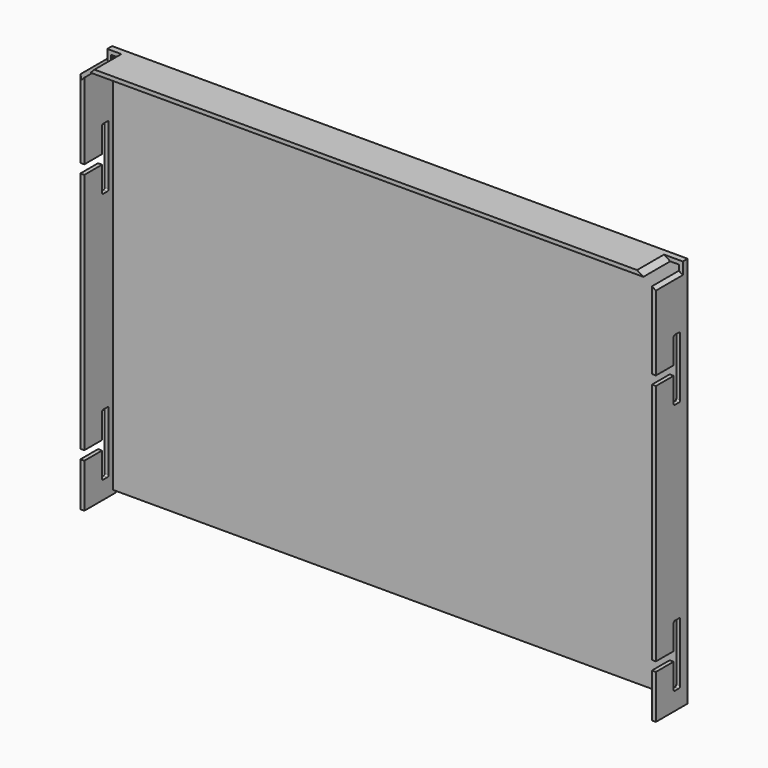
from build123d import *

# Parameters (mm, degrees)
F0_W     = 362.9276417196
F0_H     = 246.9854429364
F1_DEPTH = 25
F2_T     = -2.5
F3_W     = 357.9549430311
F3_H     = 45.3172796965
F4_DEPTH = 25
F6_DEPTH = 407
F8_DEPTH = 21.2


with BuildPart() as f1:
    # F0 (on Front) → F1 (new body)
    with BuildSketch(Plane.XZ):
        with Locations((197.4523235112, -37.3292528093)):
            Rectangle(F0_W, F0_H)
    extrude(amount=F1_DEPTH)

    # F2
    f2_openings = [f1.faces().sort_by_distance(p)[0] for p in [
        (197.452324, -25, -37.329253),
    ]]
    offset(amount=F2_T, openings=f2_openings)

    # F3 (on face) → F4 (cut)
    with BuildSketch(Plane.XZ.offset(25)):
        with Locations((197.465974167, -180.9806141257)):
            Rectangle(F3_W, F3_H)
    extrude(amount=-F4_DEPTH, mode=Mode.SUBTRACT)

    # F5 (on face) → F6 (cut)
    with BuildSketch(Plane.YZ.offset(378.916144371)):
        with BuildLine():
            Line((-11.0355205834, 31.4804576337), (-25, 31.4804576337))
            Line((-25, 31.4804576337), (-25, 25.6381239742))
            Line((-25, 25.6381239742), (-11.0355205834, 25.6381239742))
            Line((-11.0355205834, 25.6381239742), (-11.0355205834, 10.0848458931))
            ThreePointArc((-11.0355205834, 10.0848458931), (-10.7426273646, 9.3777391119), (-10.0355205834, 9.0848458931))
            Line((-10.0355205834, 9.0848458931), (-6.8423313312, 9.0848458931))
            ThreePointArc((-6.8423313312, 9.0848458931), (-6.13522455, 9.3777391119), (-5.8423313312, 10.0848458931))
            Line((-5.8423313312, 10.0848458931), (-5.8423313312, 47.0337403715))
            ThreePointArc((-5.8423313312, 47.0337403715), (-6.13522455, 47.7408471527), (-6.8423313312, 48.0337403715))
            Line((-6.8423313312, 48.0337403715), (-10.0355205834, 48.0337403715))
            ThreePointArc((-10.0355205834, 48.0337403715), (-10.7426273646, 47.7408471527), (-11.0355205834, 47.0337403715))
            Line((-11.0355205834, 47.0337403715), (-11.0355205834, 31.4804576337))
        make_face()
        with BuildLine():
            Line((-11.0355205834, -127.2254977375), (-25, -127.2254977375))
            Line((-25, -127.2254977375), (-25, -133.0678313971))
            Line((-25, -133.0678313971), (-11.0355205834, -133.0678313971))
            Line((-11.0355205834, -133.0678313971), (-11.0355205834, -148.6211094782))
            ThreePointArc((-11.0355205834, -148.6211094782), (-10.7426273646, -149.3282162594), (-10.0355205834, -149.6211094782))
            Line((-10.0355205834, -149.6211094782), (-6.8423313312, -149.6211094782))
            ThreePointArc((-6.8423313312, -149.6211094782), (-6.13522455, -149.3282162594), (-5.8423313312, -148.6211094782))
            Line((-5.8423313312, -148.6211094782), (-5.8423313312, -111.6722149998))
            ThreePointArc((-5.8423313312, -111.6722149998), (-6.13522455, -110.9651082186), (-6.8423313312, -110.6722149998))
            Line((-6.8423313312, -110.6722149998), (-10.0355205834, -110.6722149998))
            ThreePointArc((-10.0355205834, -110.6722149998), (-10.7426273646, -110.9651082186), (-11.0355205834, -111.6722149998))
            Line((-11.0355205834, -111.6722149998), (-11.0355205834, -127.2254977375))
        make_face()
    extrude(amount=-F6_DEPTH, mode=Mode.SUBTRACT)

    # F7 (on face) → F8 (cut)
    with BuildSketch(Plane.XZ.offset(25)):
        Polygon((367.0578853405, 86.1634686589), (370.9844340809, 83.6634686589), (376.416144371, 83.6634686589), (376.416144371, 80.2051451735), (378.916144371, 78.6134165555), (378.916144371, 86.1634686589), align=None)
        Polygon((15.9885026515, 80.7326063961), (16.7155197178, 77.799282968), (18.4885026515, 79.6139837289), (18.4885026515, 83.6634686589), (22.4448947056, 83.6634686589), (24.8874226582, 86.1634686589), (15.9885026515, 86.1634686589), align=None)
    extrude(amount=-F8_DEPTH, mode=Mode.SUBTRACT)


solid = f1.part
